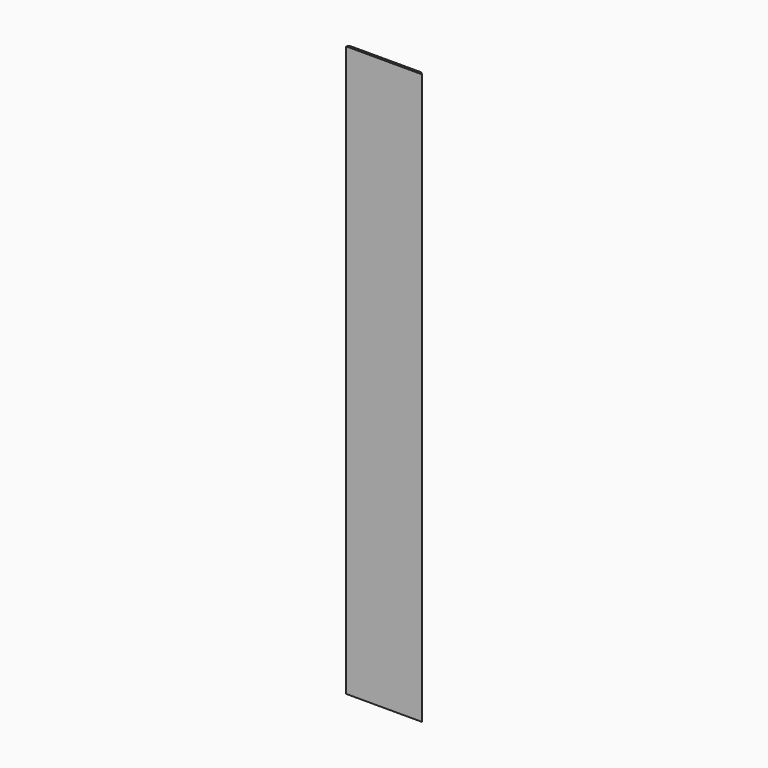
from build123d import *

# Parameters (mm, degrees)
F0_W     = 266.7
F0_H     = 9.525
F1_DEPTH = 2286
F2_DEPTH = 25.4
F3_W     = 266.7
F3_H     = 9.525
F4_DEPTH = 25.4


with BuildPart() as f1:
    # F0 (on Top) → F1 (new body)
    with BuildSketch(Plane.XY):
        with Locations((11.780921, 11.16089)):
            Rectangle(F0_W, F0_H)
        Polygon((-131.094079, 6.39839), (-140.619079, -3.12661), (164.180921, -3.12661), (154.655921, 6.39839), (145.130921, 6.39839), (-121.569079, 6.39839), align=None)
    extrude(amount=F1_DEPTH)

    # F0 (on Top) → F2 (cut)
    with BuildSketch(Plane.XY):
        with Locations((11.780921, 11.16089)):
            Rectangle(F0_W, F0_H)
    extrude(amount=F2_DEPTH, mode=Mode.SUBTRACT)

    # F3 (on face) → F4 (cut)
    with BuildSketch(Plane.XY.offset(2286)):
        with Locations((11.780921, 11.16089)):
            Rectangle(F3_W, F3_H)
    extrude(amount=-F4_DEPTH, mode=Mode.SUBTRACT)


solid = f1.part
